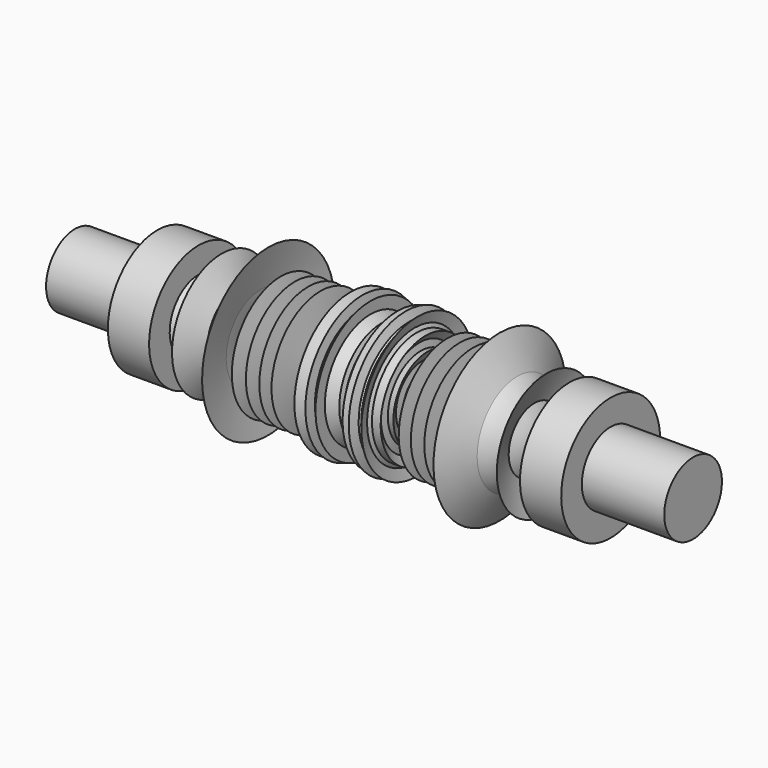
from build123d import *


with BuildPart() as f1:
    # F0 (on Front) → F1 (revolve)
    with BuildSketch(Plane.XZ):
        with BuildLine():
            Line((0, 21.6693256305), (0, 0))
            Line((0, 0), (150, 0))
            Line((150, 0), (150, 17.5))
            Line((150, 17.5), (110, 17.5))
            Line((110, 17.5), (110, 30))
            Line((110, 30), (90, 30))
            Line((90, 30), (90, 17.5))
            Line((90, 17.5), (77.4651691318, 6.678994745))
            add(Edge.make_bspline(
                [(72.9966231084, 15.6097216852), (75.1787620527, 12.4225102506), (76.3219655922, 9.5507524978), (77.4651691318, 6.678994745)],
                knots=[0.7288272916, 0.7288272916, 0.7288272916, 0.7288272916, 1, 1, 1, 1], degree=3))
            add(Edge.make_bspline(
                [(71.5628042817, 17.5517760217), (72.0873115849, 16.8902851499), (72.562524827, 16.2437615157), (72.9966231084, 15.6097216852)],
                knots=[0.6748822361, 0.6748822361, 0.6748822361, 0.6748822361, 0.7288272916, 0.7288272916, 0.7288272916, 0.7288272916], degree=3))
            add(Edge.make_bspline(
                [(64.663942956, 24.3176637406), (66.9289575988, 22.7303573773), (69.5933719963, 20.0355574133), (71.5628042817, 17.5517760217)],
                knots=[0.4723280801, 0.4723280801, 0.4723280801, 0.4723280801, 0.6748822361, 0.6748822361, 0.6748822361, 0.6748822361], degree=3))
            Line((64.663942956, 24.3176637406), (61.000674963, 25.6286989897))
            add(Edge.make_bspline(
                [(59.830175783, 20.9419401689), (59.6901790229, 23.437797919), (59.945740487, 25.2370869651), (61.000674963, 25.6286989897)],
                knots=[0.167170672, 0.167170672, 0.167170672, 0.167170672, 0.3378307298, 0.3378307298, 0.3378307298, 0.3378307298], degree=3))
            add(Edge.make_bspline(
                [(61.000674963, 12.270710431), (60.4839925374, 15.3839120928), (59.9673101118, 18.4971137545), (59.830175783, 20.9419401689)],
                knots=[0, 0, 0, 0, 0.167170672, 0.167170672, 0.167170672, 0.167170672], degree=3))
            Line((61.000674963, 12.270710431), (57.1930049726, 7.9697840538))
            Line((57.1930049726, 7.9697840538), (56.4116936669, 12.8312731816))
            Line((56.4116936669, 12.8312731816), (52.9237501323, 12.270710431))
            Line((52.9237501323, 12.270710431), (50.127889961, 29.6671614051))
            Line((50.127889961, 29.6671614051), (46.0894331336, 12.270710431))
            Line((46.0894331336, 12.270710431), (43.2935729623, 29.6671614051))
            Line((43.2935729623, 29.6671614051), (39.5657643676, 12.270710431))
            Line((39.5657643676, 12.270710431), (36.7699041963, 29.6671614051))
            Line((36.7699041963, 29.6671614051), (33.6633957922, 12.270710431))
            Line((33.6633957922, 12.270710431), (30.8675356209, 29.6671614051))
            Line((30.8675356209, 29.6671614051), (27.7610272169, 12.270710431))
            Line((27.7610272169, 12.270710431), (24.0332167596, 12.270710431))
            Line((24.0332167596, 12.270710431), (21.8586623669, 8.232248947))
            Line((21.8586623669, 8.232248947), (19.0628003329, 12.270710431))
            add(Edge.make_bspline(
                [(18.5265220099, 15.8898699265), (18.7097725422, 14.6979257427), (18.8862864375, 13.4843180868), (19.0628003329, 12.270710431)],
                knots=[0.924417358, 0.924417358, 0.924417358, 0.924417358, 1, 1, 1, 1], degree=3))
            add(Edge.make_bspline(
                [(17.8406653269, 19.9722953613), (18.0859294682, 18.6650141612), (18.3108896528, 17.2924401159), (18.5265220099, 15.8898699265)],
                knots=[0.8354786627, 0.8354786627, 0.8354786627, 0.8354786627, 0.924417358, 0.924417358, 0.924417358, 0.924417358], degree=3))
            Line((17.8406653269, 19.9722953613), (17.1299511809, 23.282187563))
            add(Edge.make_bspline(
                [(15.8701302608, 27.1433569712), (16.3522663189, 26.0563077049), (16.7649165996, 24.7458081918), (17.1299511809, 23.282187563)],
                knots=[0.6444204964, 0.6444204964, 0.6444204964, 0.6444204964, 0.7563362266, 0.7563362266, 0.7563362266, 0.7563362266], degree=3))
            Line((15.8701302608, 27.1433569712), (14.8938185182, 28.8829312407))
            add(Edge.make_bspline(
                [(13.1604354829, 30.2884634584), (13.8127999128, 30.0597529266), (14.3855904242, 29.5751510115), (14.8938185182, 28.8829312407)],
                knots=[0.4766859999, 0.4766859999, 0.4766859999, 0.4766859999, 0.575408405, 0.575408405, 0.575408405, 0.575408405], degree=3))
            add(Edge.make_bspline(
                [(12.04068262, 30.443642999), (12.4352655238, 30.4605151191), (12.8093725631, 30.4115415776), (13.1604354829, 30.2884634584)],
                knots=[0.4235595966, 0.4235595966, 0.4235595966, 0.4235595966, 0.4766859999, 0.4766859999, 0.4766859999, 0.4766859999], degree=3))
            add(Edge.make_bspline(
                [(9.7332416868, 29.7643078399), (10.558441204, 30.1710049421), (11.3325366462, 30.4133631166), (12.04068262, 30.443642999)],
                knots=[0.3282152515, 0.3282152515, 0.3282152515, 0.3282152515, 0.4235595966, 0.4235595966, 0.4235595966, 0.4235595966], degree=3))
            add(Edge.make_bspline(
                [(9.0672849858, 29.4075766104), (9.2926696096, 29.5374176038), (9.5147470344, 29.6566234071), (9.7332416868, 29.7643078399)],
                knots=[0.3029701695, 0.3029701695, 0.3029701695, 0.3029701695, 0.3282152515, 0.3282152515, 0.3282152515, 0.3282152515], degree=3))
            add(Edge.make_bspline(
                [(6.5741276375, 27.678059166), (7.438193805, 28.3607294899), (8.2732626939, 28.9501512486), (9.0672849858, 29.4075766104)],
                knots=[0.2140326121, 0.2140326121, 0.2140326121, 0.2140326121, 0.3029701695, 0.3029701695, 0.3029701695, 0.3029701695], degree=3))
            add(Edge.make_bspline(
                [(2.2138374421, 23.8062424173), (3.7090372266, 25.2311697916), (5.1793602452, 26.5760992199), (6.5741276375, 27.678059166)],
                knots=[0.0704704525, 0.0704704525, 0.0704704525, 0.0704704525, 0.2140326121, 0.2140326121, 0.2140326121, 0.2140326121], degree=3))
            add(Edge.make_bspline(
                [(0, 21.6693256305), (0.7399438662, 22.3880565014), (1.4798877324, 23.1067873722), (2.2138374421, 23.8062424173)],
                knots=[0, 0, 0, 0, 0.0704704525, 0.0704704525, 0.0704704525, 0.0704704525], degree=3))
        make_face()
        with BuildLine():
            Line((1.2346615549, 25.5908425897), (0, 21.6693256305))
            add(Edge.make_bspline(
                [(0, 21.6693256305), (0.7399438662, 22.3880565014), (1.4798877324, 23.1067873722), (2.2138374421, 23.8062424173)],
                knots=[0, 0, 0, 0, 0.0704704525, 0.0704704525, 0.0704704525, 0.0704704525], degree=3))
            Line((2.2138374421, 23.8062424173), (1.2346615549, 25.5908425897))
        make_face()
        with BuildLine():
            Line((6.5741276375, 33.3432426597), (6.5741276375, 27.678059166))
            add(Edge.make_bspline(
                [(6.5741276375, 27.678059166), (7.438193805, 28.3607294899), (8.2732626939, 28.9501512486), (9.0672849858, 29.4075766104)],
                knots=[0.2140326121, 0.2140326121, 0.2140326121, 0.2140326121, 0.3029701695, 0.3029701695, 0.3029701695, 0.3029701695], degree=3))
            Line((9.0672849858, 29.4075766104), (6.5741276375, 33.3432426597))
        make_face()
        with BuildLine():
            Line((10.5205139602, 34.5443420431), (9.7332416868, 29.7643078399))
            add(Edge.make_bspline(
                [(9.7332416868, 29.7643078399), (10.558441204, 30.1710049421), (11.3325366462, 30.4133631166), (12.04068262, 30.443642999)],
                knots=[0.3282152515, 0.3282152515, 0.3282152515, 0.3282152515, 0.4235595966, 0.4235595966, 0.4235595966, 0.4235595966], degree=3))
            Line((12.04068262, 30.443642999), (10.5205139602, 34.5443420431))
        make_face()
        with BuildLine():
            Line((16.2498224527, 34.0652950108), (13.1604354829, 30.2884634584))
            add(Edge.make_bspline(
                [(13.1604354829, 30.2884634584), (13.8127999128, 30.0597529266), (14.3855904242, 29.5751510115), (14.8938185182, 28.8829312407)],
                knots=[0.4766859999, 0.4766859999, 0.4766859999, 0.4766859999, 0.575408405, 0.575408405, 0.575408405, 0.575408405], degree=3))
            Line((14.8938185182, 28.8829312407), (16.2498224527, 34.0652950108))
        make_face()
        with BuildLine():
            add(Edge.make_bspline(
                [(71.5628042817, 17.5517760217), (72.0873115849, 16.8902851499), (72.562524827, 16.2437615157), (72.9966231084, 15.6097216852)],
                knots=[0.6748822361, 0.6748822361, 0.6748822361, 0.6748822361, 0.7288272916, 0.7288272916, 0.7288272916, 0.7288272916], degree=3))
            Line((72.9966231084, 15.6097216852), (78.7995061792, 30.0915367624))
            Line((78.7995061792, 30.0915367624), (71.5628042817, 17.5517760217))
        make_face()
        with BuildLine():
            add(Edge.make_bspline(
                [(14.8938185182, 28.8829312407), (15.2490963671, 28.399033648), (15.5728242636, 27.8136786793), (15.8701302608, 27.1433569712)],
                knots=[0.575408405, 0.575408405, 0.575408405, 0.575408405, 0.6444204964, 0.6444204964, 0.6444204964, 0.6444204964], degree=3))
            Line((14.8938185182, 28.8829312407), (15.8701302608, 27.1433569712))
        make_face()
        with BuildLine():
            Line((20.0848666792, 27.1433569712), (15.8701302608, 27.1433569712))
            add(Edge.make_bspline(
                [(15.8701302608, 27.1433569712), (16.3522663189, 26.0563077049), (16.7649165996, 24.7458081918), (17.1299511809, 23.282187563)],
                knots=[0.6444204964, 0.6444204964, 0.6444204964, 0.6444204964, 0.7563362266, 0.7563362266, 0.7563362266, 0.7563362266], degree=3))
            Line((17.1299511809, 23.282187563), (20.0848666792, 27.1433569712))
        make_face()
        with BuildLine():
            Line((61.000674963, 25.6286989897), (64.663942956, 24.3176637406))
            add(Edge.make_bspline(
                [(61.000674963, 25.6286989897), (61.8320698045, 25.9373287905), (63.1599576823, 25.3716460638), (64.663942956, 24.3176637406)],
                knots=[0.3378307298, 0.3378307298, 0.3378307298, 0.3378307298, 0.4723280801, 0.4723280801, 0.4723280801, 0.4723280801], degree=3))
        make_face()
        with BuildLine():
            add(Edge.make_bspline(
                [(61.000674963, 25.6286989897), (61.8320698045, 25.9373287905), (63.1599576823, 25.3716460638), (64.663942956, 24.3176637406)],
                knots=[0.3378307298, 0.3378307298, 0.3378307298, 0.3378307298, 0.4723280801, 0.4723280801, 0.4723280801, 0.4723280801], degree=3))
            Line((64.663942956, 24.3176637406), (56.147307816, 40.1663766136))
            Line((56.147307816, 40.1663766136), (59.830175783, 20.9419401689))
            add(Edge.make_bspline(
                [(59.830175783, 20.9419401689), (59.6901790229, 23.437797919), (59.945740487, 25.2370869651), (61.000674963, 25.6286989897)],
                knots=[0.167170672, 0.167170672, 0.167170672, 0.167170672, 0.3378307298, 0.3378307298, 0.3378307298, 0.3378307298], degree=3))
        make_face()
        with BuildLine():
            add(Edge.make_bspline(
                [(17.1299511809, 23.282187563), (17.3880893889, 22.2471721816), (17.6224160983, 21.1355845078), (17.8406653269, 19.9722953613)],
                knots=[0.7563362266, 0.7563362266, 0.7563362266, 0.7563362266, 0.8354786627, 0.8354786627, 0.8354786627, 0.8354786627], degree=3))
            Line((17.1299511809, 23.282187563), (17.8406653269, 19.9722953613))
        make_face()
        with BuildLine():
            Line((21.1058293493, 20.6734052822), (17.8406653269, 19.9722953613))
            add(Edge.make_bspline(
                [(17.8406653269, 19.9722953613), (18.0859294682, 18.6650141612), (18.3108896528, 17.2924401159), (18.5265220099, 15.8898699265)],
                knots=[0.8354786627, 0.8354786627, 0.8354786627, 0.8354786627, 0.924417358, 0.924417358, 0.924417358, 0.924417358], degree=3))
            Line((18.5265220099, 15.8898699265), (21.1058293493, 20.6734052822))
        make_face()
    revolve(axis=Axis((75, 0, 0), (1, 0, 0)))

    # F2: F1 across face


with BuildPart() as f1_1:
    add(f1.part)
    add(f1.part.mirror(Plane(origin=(0, 0, 0), x_dir=(0, -1, 0), z_dir=(-1, 0, 0))))


solid = f1_1.part
